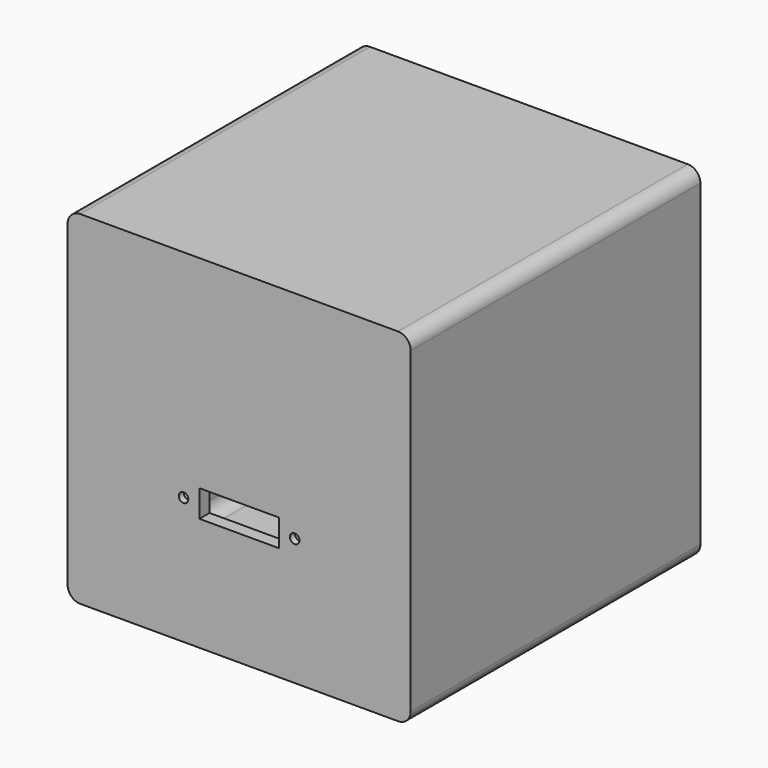
from build123d import *

# Parameters (mm, degrees)
F0_W      = 137.16
F0_H      = 137.16
F1_DEPTH  = 5.08
F2_W      = 5.08
F2_H      = 127
F3_DEPTH  = 139.7
F4_W      = 15.875
F4_H      = 10.795
F5_DEPTH  = 5.08
F6_R      = 1.905
F7_DEPTH  = 5.08
F8_R      = 5.08
F10_DEPTH = 2.54
F12_DEPTH = 22.86


with BuildPart() as f1:
    # F0 (on Front) → F1 (new body)
    with BuildSketch(Plane.XZ):
        with Locations((68.58, 68.58)):
            Rectangle(F0_W, F0_H)
    extrude(amount=F1_DEPTH)

    # F2 (on face) → F3 (join)
    with BuildSketch(Plane(origin=(0, 0, 0), x_dir=(-1, 0, 0), z_dir=(0, 1, 0))):
        Polygon((-132.08, 137.16), (-137.16, 137.16), (-137.16, 0), (-132.08, 0), (-132.08, 5.08), (-132.08, 132.08), align=None)
        Polygon((0, 137.16), (-132.08, 137.16), (-132.08, 132.08), (-5.08, 132.08), (0, 132.08), align=None)
        Polygon((-132.08, 5.08), (-132.08, 0), (0, 0), (0, 5.08), (-5.08, 5.08), align=None)
        with Locations((-2.54, 68.58)):
            Rectangle(F2_W, F2_H)
    extrude(amount=F3_DEPTH)

    # F4 (on face) → F5 (cut, through all)
    with BuildSketch(Plane.XZ.offset(5.08)):
        with Locations((76.5175, 50.8)):
            Rectangle(F4_W, F4_H)
        with Locations((60.6425, 50.8)):
            Rectangle(F4_W, F4_H)
    extrude(amount=-F5_DEPTH, mode=Mode.SUBTRACT)

    # F6 (on face) → F7 (cut, through all)
    with BuildSketch(Plane.XZ.offset(5.08)):
        with BuildLine():
            ThreePointArc((88.9, 50.8), (90.805, 48.895), (92.71, 50.8))
            ThreePointArc((92.71, 50.8), (90.805, 52.705), (88.9, 50.8))
        make_face()
        with Locations((46.355, 50.8)):
            Circle(F6_R)
    extrude(amount=-F7_DEPTH, mode=Mode.SUBTRACT)

    # F8
    f8_edges = [f1.edges().sort_by_distance(p)[0] for p in [
        (0, 67.31, 137.16),
        (137.16, 67.31, 137.16),
        (0, 67.31, 0),
        (137.16, 67.31, 0),
        (5.08, 69.85, 132.08),
        (132.08, 69.85, 132.08),
        (5.08, 69.85, 5.08),
        (132.08, 69.85, 5.08),
    ]]
    fillet(f8_edges, radius=F8_R)

    # F9 (on face) → F10 (cut)
    with BuildSketch(Plane(origin=(0, 0, 0), x_dir=(-1, 0, 0), z_dir=(0, 1, 0))):
        Polygon((-89.0524, 53.835592), (-92.5576, 53.835592), (-94.3102, 50.8), (-92.5576, 47.764408), (-89.0524, 47.764408), (-87.2998, 50.8), align=None)
        Polygon((-42.8498, 50.8), (-44.6024, 53.835592), (-48.1076, 53.835592), (-49.8602, 50.8), (-48.1076, 47.764408), (-44.6024, 47.764408), align=None)
    extrude(amount=-F10_DEPTH, mode=Mode.SUBTRACT)

    # F11 (on face) → F12 (cut)
    with BuildSketch(Plane(origin=(0, 139.7, 0), x_dir=(-1, 0, 0), z_dir=(0, 1, 0))):
        with BuildLine():
            Line((-133.35, 130.81), (-133.35, 133.35))
            Line((-133.35, 133.35), (-130.81, 133.35))
            ThreePointArc((-130.81, 133.35), (-135.146051, 135.146051), (-133.35, 130.81))
        make_face()
        with BuildLine():
            Line((-130.81, 133.35), (-133.35, 133.35))
            Line((-133.35, 133.35), (-133.35, 130.81))
            ThreePointArc((-133.35, 130.81), (-131.553949, 131.553949), (-130.81, 133.35))
        make_face()
        with BuildLine():
            ThreePointArc((-130.81, 3.81), (-131.553949, 5.606051), (-133.35, 6.35))
            Line((-133.35, 6.35), (-133.35, 3.81))
            Line((-133.35, 3.81), (-130.81, 3.81))
        make_face()
        with BuildLine():
            Line((-133.35, 3.81), (-133.35, 6.35))
            ThreePointArc((-133.35, 6.35), (-135.146051, 2.013949), (-130.81, 3.81))
            Line((-130.81, 3.81), (-133.35, 3.81))
        make_face()
        with BuildLine():
            Line((-3.81, 3.81), (-3.81, 6.35))
            ThreePointArc((-3.81, 6.35), (-5.606051, 5.606051), (-6.35, 3.81))
            Line((-6.35, 3.81), (-3.81, 3.81))
        make_face()
        with BuildLine():
            ThreePointArc((-1.27, 3.81), (-2.013949, 5.606051), (-3.81, 6.35))
            Line((-3.81, 6.35), (-3.81, 3.81))
            Line((-3.81, 3.81), (-6.35, 3.81))
            ThreePointArc((-6.35, 3.81), (-3.81, 1.27), (-1.27, 3.81))
        make_face()
        with BuildLine():
            Line((-3.81, 133.35), (-6.35, 133.35))
            ThreePointArc((-6.35, 133.35), (-5.606051, 131.553949), (-3.81, 130.81))
            Line((-3.81, 130.81), (-3.81, 133.35))
        make_face()
        with BuildLine():
            ThreePointArc((-1.27, 133.35), (-3.81, 135.89), (-6.35, 133.35))
            Line((-6.35, 133.35), (-3.81, 133.35))
            Line((-3.81, 133.35), (-3.81, 130.81))
            ThreePointArc((-3.81, 130.81), (-2.013949, 131.553949), (-1.27, 133.35))
        make_face()
    extrude(amount=-F12_DEPTH, mode=Mode.SUBTRACT)


solid = f1.part
